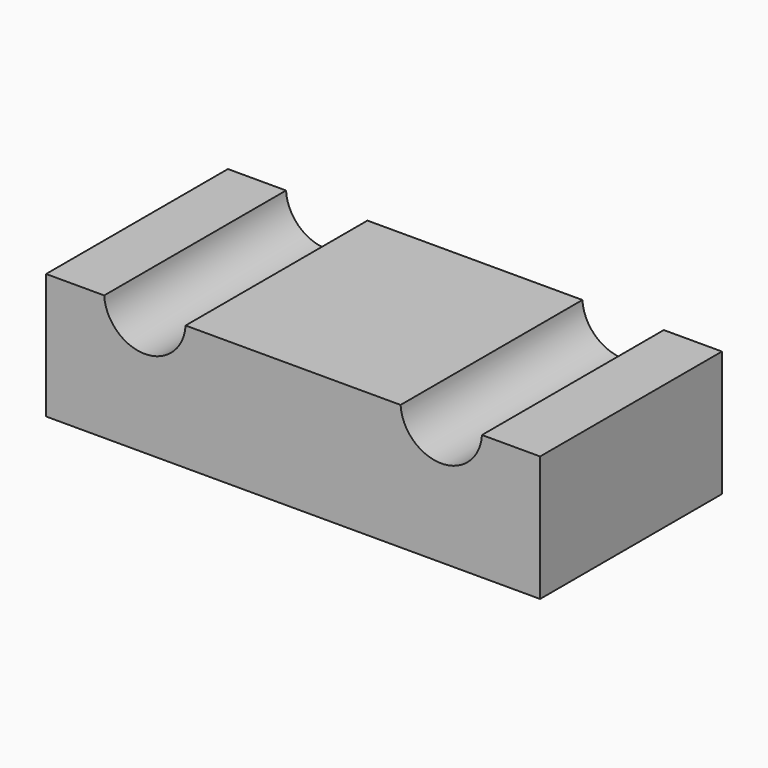
from build123d import *

# Parameters (mm, degrees)
F0_W     = 99.9998
F0_H     = 46.00928
F1_DEPTH = 25.4
F2_R     = 8.255
F3_DEPTH = 127


with BuildPart() as f1:
    # F0 (on Top) → F1 (new body)
    with BuildSketch(Plane.XY):
        Rectangle(F0_W, F0_H)
    extrude(amount=F1_DEPTH)

    # F2 (on Front) → F3 (cut, symmetric)
    with BuildSketch(Plane.XZ):
        with Locations((-29.9974, 25.907155)):
            Circle(F2_R)
        with Locations((29.9974, 25.907155)):
            Circle(F2_R)
    extrude(amount=F3_DEPTH, both=True, mode=Mode.SUBTRACT)


solid = f1.part
